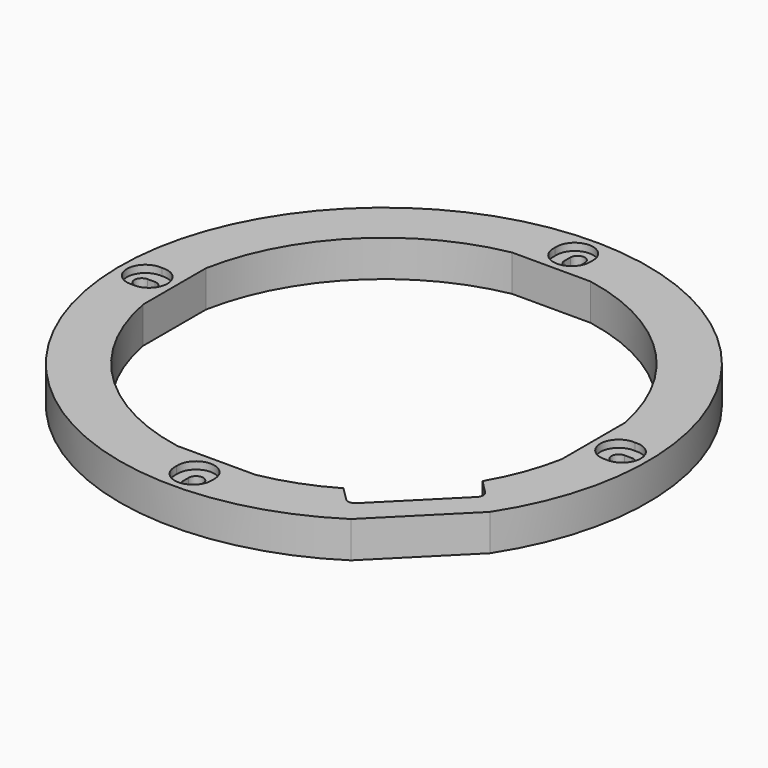
from build123d import *

# Parameters (mm, degrees)
F0_R      = 72.5
F0_R_2    = 58.5
F1_DEPTH  = 10
F3_DEPTH  = 10.001
F5_DEPTH  = 5
F7_DEPTH  = 2
F8_SIZE   = 3
F9_R      = 5
F10_R     = 2
F11_W     = 21.5406592285
F11_H     = 1
F11_W_2   = 1
F11_H_2   = 21.5406592285
F12_DEPTH = 10


with BuildPart() as f1:
    # F0 (on Top) → F1 (new body)
    with BuildSketch(Plane.XY):
        Circle(F0_R)
        with BuildLine():
            ThreePointArc((2, -66.5), (0, -68.5), (-2, -66.5))
            Line((-2, -66.5), (-2, -64.5))
            ThreePointArc((-2, -64.5), (0, -62.5), (2, -64.5))
            Line((2, -64.5), (2, -66.5))
        make_face(mode=Mode.SUBTRACT)
        with BuildLine():
            Line((-65.5, 2), (-64.5, 2))
            ThreePointArc((-64.5, 2), (-63.0857864376, 1.4142135624), (-62.5, 0))
            ThreePointArc((-62.5, 0), (-63.0857864376, -1.4142135624), (-64.5, -2))
            Line((-64.5, -2), (-65.5, -2))
            Line((-65.5, -2), (-66.5, -2))
            ThreePointArc((-66.5, -2), (-68.5, 0), (-66.5, 2))
            Line((-66.5, 2), (-65.5, 2))
        make_face(mode=Mode.SUBTRACT)
        Circle(F0_R_2, mode=Mode.SUBTRACT)
        with BuildLine():
            ThreePointArc((66.5, 2), (67.9142135624, 1.4142135624), (68.5, 0))
            ThreePointArc((68.5, 0), (67.9142135624, -1.4142135624), (66.5, -2))
            Line((66.5, -2), (64.5, -2))
            ThreePointArc((64.5, -2), (62.5, 0), (64.5, 2))
            Line((64.5, 2), (66.5, 2))
        make_face(mode=Mode.SUBTRACT)
        with BuildLine():
            ThreePointArc((-2, 66.5), (0, 68.5), (2, 66.5))
            Line((2, 66.5), (2, 64.5))
            ThreePointArc((2, 64.5), (0, 62.5), (-2, 64.5))
            Line((-2, 64.5), (-2, 66.5))
        make_face(mode=Mode.SUBTRACT)
    extrude(amount=F1_DEPTH)

    # F2 (on face) → F3 (cut, through all)
    with BuildSketch(Plane.XY.offset(10)):
        Polygon((39.5494049015, -60.7626083371), (40.6586399182, -61.8718433538), (61.8718433538, -40.6586399182), (60.7626083371, -39.5494049015), align=None)
        with BuildLine():
            ThreePointArc((39.5494049015, -60.7626083371), (45.6549558742, -56.319401667), (51.2652415538, -51.2652417182))
            ThreePointArc((51.2652415538, -51.2652417182), (56.3194015937, -45.6549559645), (60.7626083371, -39.5494049015))
            Line((60.7626083371, -39.5494049015), (39.5494049015, -60.7626083371))
        make_face()
    extrude(amount=-F3_DEPTH, mode=Mode.SUBTRACT)

    # F4 (on face) → F5 (cut)
    with BuildSketch(Plane.XY.offset(10)):
        Polygon((55.6760094304, -34.4628059948), (50.5894105236, -29.376207088), (29.376207088, -50.5894105236), (34.4628059948, -55.6760094304), align=None)
    extrude(amount=-F5_DEPTH, mode=Mode.SUBTRACT)

    # F6 (on face) → F7 (cut)
    with BuildSketch(Plane.XY.offset(10)):
        with BuildLine():
            ThreePointArc((-65, -5.0251865637), (-61.7565056431, -3.3895058637), (-60.45, 0))
            ThreePointArc((-60.45, 0), (-61.7565056431, 3.3895058637), (-65, 5.0251865637))
            ThreePointArc((-65, 5.0251865637), (-69.55, 0), (-65, -5.0251865637))
        make_face()
        with BuildLine():
            ThreePointArc((-65, 5.0251865637), (-61.7565056431, 3.3895058637), (-60.45, 0))
            ThreePointArc((-60.45, 0), (-61.7565056431, -3.3895058637), (-65, -5.0251865637))
            ThreePointArc((-65, -5.0251865637), (-61.1104941363, -3.7434943569), (-59.45, 0))
            ThreePointArc((-59.45, 0), (-61.1104941363, 3.7434943569), (-65, 5.0251865637))
        make_face()
        with BuildLine():
            ThreePointArc((-65, -5.0251865637), (-69.55, 0), (-65, 5.0251865637))
            ThreePointArc((-65, 5.0251865637), (-70.55, 0), (-65, -5.0251865637))
        make_face()
        with BuildLine():
            ThreePointArc((5.0251865637, 65), (5.0437928262, 65.249692336), (5.05, 65.5))
            ThreePointArc((5.05, 65.5), (-0.250307664, 70.5437928262), (-5.0251865637, 65))
            ThreePointArc((-5.0251865637, 65), (0, 69.55), (5.0251865637, 65))
        make_face()
        with BuildLine():
            ThreePointArc((5.0251865637, 65), (0, 69.55), (-5.0251865637, 65))
            ThreePointArc((-5.0251865637, 65), (0, 60.45), (5.0251865637, 65))
        make_face()
        with BuildLine():
            ThreePointArc((5.0251865637, 65), (0, 60.45), (-5.0251865637, 65))
            ThreePointArc((-5.0251865637, 65), (-0.250307664, 59.4562071738), (5.05, 64.5))
            ThreePointArc((5.05, 64.5), (5.0437928262, 64.750307664), (5.0251865637, 65))
        make_face()
        with BuildLine():
            ThreePointArc((65, -5.0251865637), (68.8895058637, -3.7434943569), (70.55, 0))
            ThreePointArc((70.55, 0), (68.8895058637, 3.7434943569), (65, 5.0251865637))
            ThreePointArc((65, 5.0251865637), (68.2434943569, 3.3895058637), (69.55, 0))
            ThreePointArc((69.55, 0), (68.2434943569, -3.3895058637), (65, -5.0251865637))
        make_face()
        with BuildLine():
            ThreePointArc((69.55, 0), (68.2434943569, 3.3895058637), (65, 5.0251865637))
            ThreePointArc((65, 5.0251865637), (60.45, 0), (65, -5.0251865637))
            ThreePointArc((65, -5.0251865637), (68.2434943569, -3.3895058637), (69.55, 0))
        make_face()
        with BuildLine():
            ThreePointArc((65, -5.0251865637), (60.45, 0), (65, 5.0251865637))
            ThreePointArc((65, 5.0251865637), (59.45, 0), (65, -5.0251865637))
        make_face()
        with BuildLine():
            ThreePointArc((-5.0251865637, -65), (-0.250307664, -70.5437928262), (5.05, -65.5))
            ThreePointArc((5.05, -65.5), (5.0437928262, -65.249692336), (5.0251865637, -65))
            ThreePointArc((5.0251865637, -65), (0, -69.55), (-5.0251865637, -65))
        make_face()
        with BuildLine():
            ThreePointArc((-5.0251865637, -65), (0, -69.55), (5.0251865637, -65))
            ThreePointArc((5.0251865637, -65), (0, -60.45), (-5.0251865637, -65))
        make_face()
        with BuildLine():
            ThreePointArc((-5.0251865637, -65), (0, -60.45), (5.0251865637, -65))
            ThreePointArc((5.0251865637, -65), (5.0437928262, -64.750307664), (5.05, -64.5))
            ThreePointArc((5.05, -64.5), (-0.250307664, -59.4562071738), (-5.0251865637, -65))
        make_face()
    extrude(amount=-F7_DEPTH, mode=Mode.SUBTRACT)

    # F8
    f8_edges = [f1.edges().sort_by_distance(p)[0] for p in [
        (41.365747, -41.365747, 5),
    ]]
    chamfer(f8_edges, length=F8_SIZE)

    # F9
    f9_edges = [f1.edges().sort_by_distance(p)[0] for p in [
        (43.487067, -43.487067, 5),
    ]]
    fillet(f9_edges, radius=F9_R)

    # F10
    f10_edges = [f1.edges().sort_by_distance(p)[0] for p in [
        (55.676009, -34.462806, 7.5),
        (34.462806, -55.676009, 7.5),
    ]]
    fillet(f10_edges, radius=F10_R)

    # F11 (on face) → F12 (join)
    with BuildSketch(Plane.XY.offset(10)):
        with Locations((0, -58)):
            Rectangle(F11_W, F11_H)
        with Locations((58, 0)):
            Rectangle(F11_W_2, F11_H_2)
        with Locations((0, 58)):
            Rectangle(F11_W, F11_H)
        with Locations((-58, 0)):
            Rectangle(F11_W_2, F11_H_2)
    extrude(amount=-F12_DEPTH)


solid = f1.part
